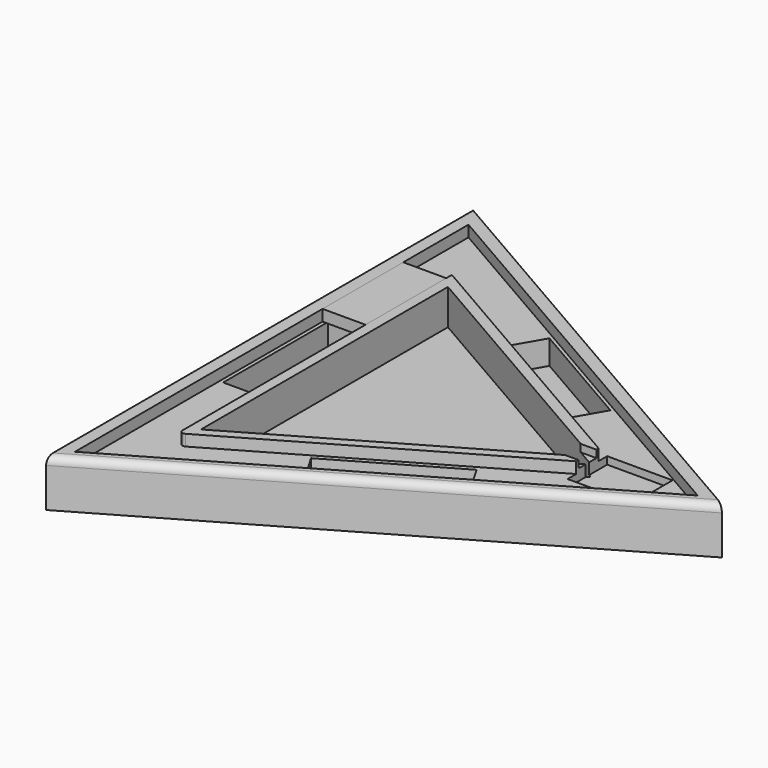
from build123d import *

# Parameters (mm, degrees)
BOX005_W               = 23
BOX005_H               = 54
BOX005_DEPTH           = 6
PRISM003_DEPTH         = 6
PRISM002_DEPTH         = 6
BOX004_W               = 10
BOX004_H               = 12
BOX004_DEPTH           = 4
BOX003_W               = 35
BOX003_H               = 26.5
BOX003_DEPTH           = 10
BOX002_W               = 70
BOX002_H               = 19
BOX002_DEPTH           = 19
BOX002_PLACEMENT_ANGLE = 30
BOX001_W               = 70
BOX001_H               = 19
BOX001_DEPTH           = 19
BOX001_PLACEMENT_ANGLE = 90
BOX_W                  = 70
BOX_H                  = 19
BOX_DEPTH              = 19
BOX_PLACEMENT_ANGLE    = 30
PRISM001_DEPTH         = 19
PRISM_DEPTH            = 25
FILLET_R               = 0.8
FILLET001_R            = 4
FILLET002_R            = 2


with BuildPart() as box005:
    # Box005 → Box005 (new body)
    with BuildSketch(Plane(origin=(-76, 34, 13), x_dir=(1, 0, 0), z_dir=(0, 0, 1))):
        with Locations((11.5, 27)):
            Rectangle(BOX005_W, BOX005_H)
    extrude(amount=BOX005_DEPTH)


with BuildPart() as prism003:
    # Prism003 → Prism003 (new body)
    with BuildSketch(Plane.XY.offset(13)):
        Polygon((106, 0), (-53, 91.798693), (-53, -91.798693), align=None)
    extrude(amount=PRISM003_DEPTH)


with BuildPart() as cut006:
    # Prism002 → Prism002 (new body)
    with BuildSketch(Plane.XY.offset(13)):
        Polygon((152, 0), (-76, 131.635861), (-76, -131.635861), align=None)
    extrude(amount=PRISM002_DEPTH)

    # Cut006: cut Prism003
    add(prism003.part, mode=Mode.SUBTRACT)


with BuildPart() as box004:
    # Box004 → Box004 (new body)
    with BuildSketch(Plane(origin=(84, -6, 15), x_dir=(1, 0, 0), z_dir=(0, 0, 1))):
        with Locations((5, 6)):
            Rectangle(BOX004_W, BOX004_H)
    extrude(amount=BOX004_DEPTH)


with BuildPart() as box003:
    # Box003 → Box003 (new body)
    with BuildSketch(Plane(origin=(93, -13.3, 9), x_dir=(1, 0, 0), z_dir=(0, 0, 1))):
        with Locations((17.5, 13.25)):
            Rectangle(BOX003_W, BOX003_H)
    extrude(amount=BOX003_DEPTH)


with BuildPart() as box002:
    # Box002 → Box002 (new body)
    with BuildSketch(Plane.XY):
        with Locations((35, 9.5)):
            Rectangle(BOX002_W, BOX002_H)
    extrude(amount=BOX002_DEPTH)


with BuildPart() as box002_1:
    # Box002 placement: moved
    add(box002.part.moved(Location((7, -82, 0))).rotate(Axis((7, -82, 0), (0, 0, 1)), BOX002_PLACEMENT_ANGLE))


with BuildPart() as box001:
    # Box001 → Box001 (new body)
    with BuildSketch(Plane.XY):
        with Locations((35, 9.5)):
            Rectangle(BOX001_W, BOX001_H)
    extrude(amount=BOX001_DEPTH)


with BuildPart() as box001_1:
    # Box001 placement: moved
    add(box001.part.moved(Location((-55, -35, 0))).rotate(Axis((-55, -35, 0), (0, 0, 1)), BOX001_PLACEMENT_ANGLE))


with BuildPart() as box:
    # Box → Box (new body)
    with BuildSketch(Plane.XY):
        with Locations((35, 9.5)):
            Rectangle(BOX_W, BOX_H)
    extrude(amount=BOX_DEPTH)


with BuildPart() as box_1:
    # Box placement: moved
    add(box.part.moved(Location((-2, 65, 0))).rotate(Axis((-2, 65, 0), (0, 0, -1)), BOX_PLACEMENT_ANGLE))


with BuildPart() as prism001:
    # Prism001 → Prism001 (new body)
    with BuildSketch(Plane.XY):
        Polygon((95, 0), (-47.5, 82.272413), (-47.5, -82.272413), align=None)
    extrude(amount=PRISM001_DEPTH)


with BuildPart() as fillet002:
    # Prism → Prism (new body)
    with BuildSketch(Plane.XY.offset(-6)):
        Polygon((165, 0), (-82.5, 142.894192), (-82.5, -142.894192), align=None)
    extrude(amount=PRISM_DEPTH)

    # Cut: cut Prism001
    add(prism001.part, mode=Mode.SUBTRACT)

    # Cut001: cut Box
    add(box_1.part, mode=Mode.SUBTRACT)

    # Cut002: cut Box001
    add(box001_1.part, mode=Mode.SUBTRACT)

    # Cut003: cut Box002
    add(box002_1.part, mode=Mode.SUBTRACT)

    # Cut004: cut Box003
    add(box003.part, mode=Mode.SUBTRACT)

    # Cut005: cut Box004
    add(box004.part, mode=Mode.SUBTRACT)

    # Cut007: cut Cut006
    add(cut006.part, mode=Mode.SUBTRACT)

    # Fillet
    fillet_edges = [fillet002.edges().sort_by_distance(p)[0] for p in [
        (-55, 0, 0),
        (18.553848, -44.136207, 19),
        (95, 0, 4.5),
        (88.803848, -6, 15),
    ]]
    fillet(fillet_edges, radius=FILLET_R)

    # Fillet001
    fillet001_edges = [fillet002.edges().sort_by_distance(p)[0] for p in [
        (-64.9, -35, 0),
        (41.25, -71.447096, 19),
    ]]
    fillet(fillet001_edges, radius=FILLET001_R)

    # Fillet002
    fillet002_edges = [fillet002.edges().sort_by_distance(p)[0] for p in [
        (-66.5, -35, 4),
        (-53, -91.798693, 16),
    ]]
    fillet(fillet002_edges, radius=FILLET002_R)


solid = Compound([box005.part, fillet002.part])
